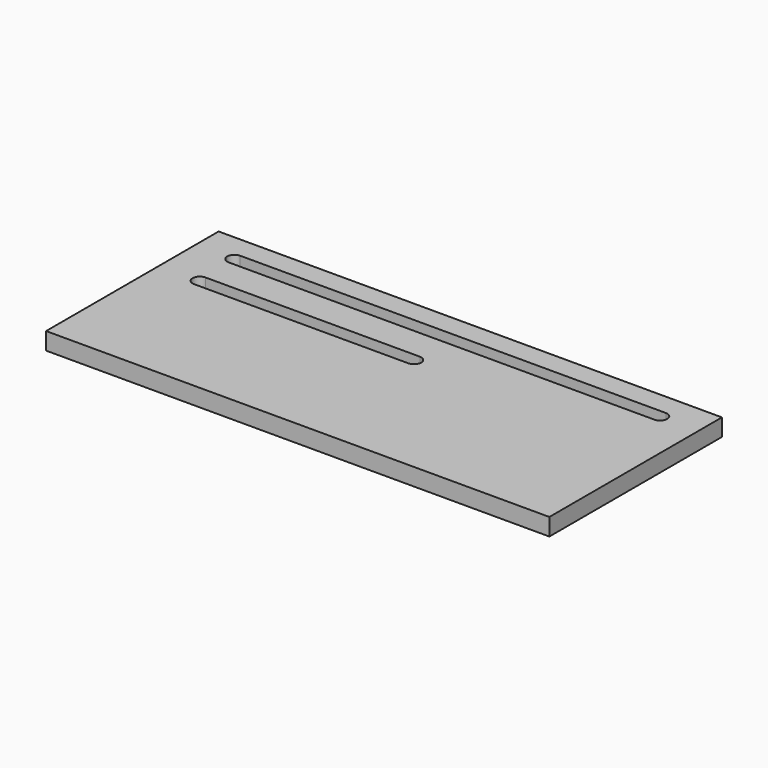
from build123d import *

# Parameters (mm, degrees)
F0_W     = 350
F0_H     = 150
F1_DEPTH = 12
F3_DEPTH = 10


with BuildPart() as f1:
    # F0 (on Top) → F1 (new body)
    with BuildSketch(Plane.XY):
        Rectangle(F0_W, F0_H)
    extrude(amount=F1_DEPTH)

    # F2 (on face) → F3 (cut)
    with BuildSketch(Plane.XY.offset(12)):
        with BuildLine():
            Line((148, 60), (-148, 60))
            ThreePointArc((-148, 60), (-153, 55), (-148, 50))
            Line((-148, 50), (148, 50))
            ThreePointArc((148, 50), (153, 55), (148, 60))
        make_face()
        with BuildLine():
            ThreePointArc((2.280964, 18.268998), (7.280964, 23.268998), (2.280964, 28.268998))
            Line((2.280964, 28.268998), (-146.719036, 28.268998))
            ThreePointArc((-146.719036, 28.268998), (-151.719036, 23.268998), (-146.719036, 18.268998))
            Line((-146.719036, 18.268998), (2.280964, 18.268998))
        make_face()
    extrude(amount=-F3_DEPTH, mode=Mode.SUBTRACT)


solid = f1.part
